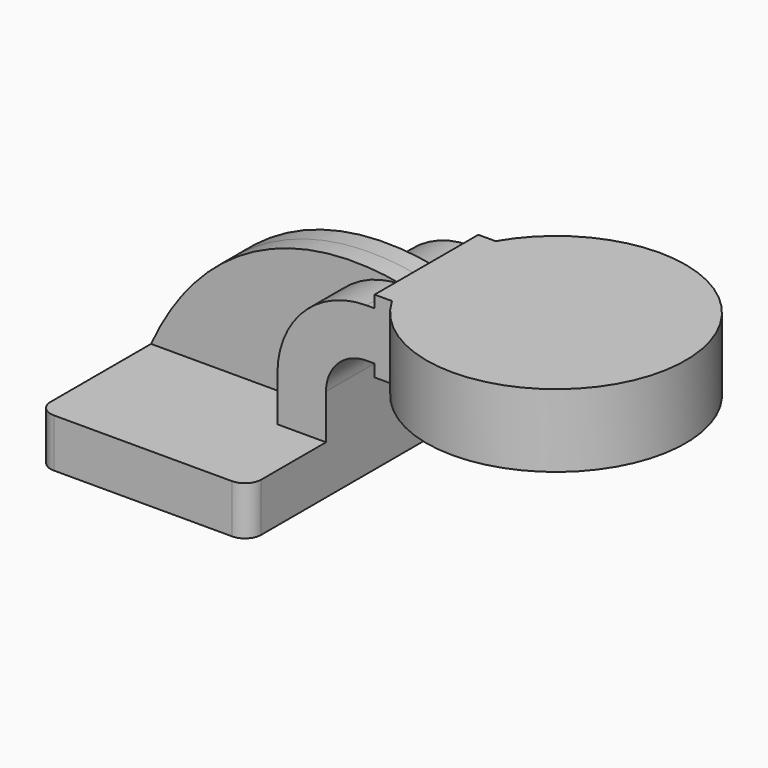
from build123d import *

# Parameters (mm, degrees)
F1_DEPTH = 63.5
F2_DEPTH = 25.4
F3_DEPTH = 7.9375
F5_R     = 6.35


with BuildPart() as f1:
    # F0 (on Front) → F1 (new body, symmetric)
    with BuildSketch(Plane.XZ):
        Polygon((-41.275, 9.525), (-41.275, -9.525), (41.275, -9.525), (41.275, 9.525), (22.225, 9.525), align=None)
    extrude(amount=F1_DEPTH, both=True)

    # F0 (on Front) → F2 (join, symmetric)
    with BuildSketch(Plane.XZ):
        with BuildLine():
            Line((22.225, 9.525), (41.275, 9.525))
            Line((41.275, 9.525), (41.275, 27.0002))
            ThreePointArc((41.275, 27.0002), (45.92468, 38.22552), (57.15, 42.8752))
            Line((57.15, 42.8752), (60.325, 42.8752))
            Line((60.325, 42.8752), (60.325, 61.9252))
            Line((60.325, 61.9252), (57.15, 61.9252))
            ThreePointArc((57.15, 61.9252), (32.454296, 51.695904), (22.225, 27.0002))
            Line((22.225, 27.0002), (22.225, 9.525))
        make_face()
        Polygon((60.325, 66.675), (60.325, 61.9252), (60.325, 42.8752), (60.325, 38.1), (111.125, 38.1), (111.125, 66.675), align=None)
    extrude(amount=F2_DEPTH, both=True)

    # F0 (on Front) → F3 (join, symmetric)
    with BuildSketch(Plane.XZ):
        with BuildLine():
            add(Edge.make_bspline(
                [(-41.275, 9.525), (-21.197749, 53.768482), (17.248105, 69.648288), (57.15, 61.9252)],
                knots=[0, 0, 0, 0, 111.504536, 111.504536, 111.504536, 111.504536], degree=3))
            Line((-41.275, 9.525), (22.225, 9.525))
            Line((22.225, 9.525), (22.225, 27.0002))
            ThreePointArc((22.225, 27.0002), (32.454296, 51.695904), (57.15, 61.9252))
        make_face()
    extrude(amount=F3_DEPTH, both=True)

    # F0 (on Front) → F4 (revolve)
    with BuildSketch(Plane.XZ):
        Polygon((60.325, 66.675), (60.325, 61.9252), (60.325, 42.8752), (60.325, 38.1), (111.125, 38.1), (111.125, 66.675), align=None)
    revolve(axis=Axis((111.125, 0, 52.3875), (0, 0, 1)))

    # F5
    f5_edges = [f1.edges().sort_by_distance(p)[0] for p in [
        (-41.275, -63.5, 0),
        (-41.275, 63.5, 0),
        (41.275, 63.5, 0),
        (41.275, -63.5, 0),
    ]]
    fillet(f5_edges, radius=F5_R)


solid = f1.part
